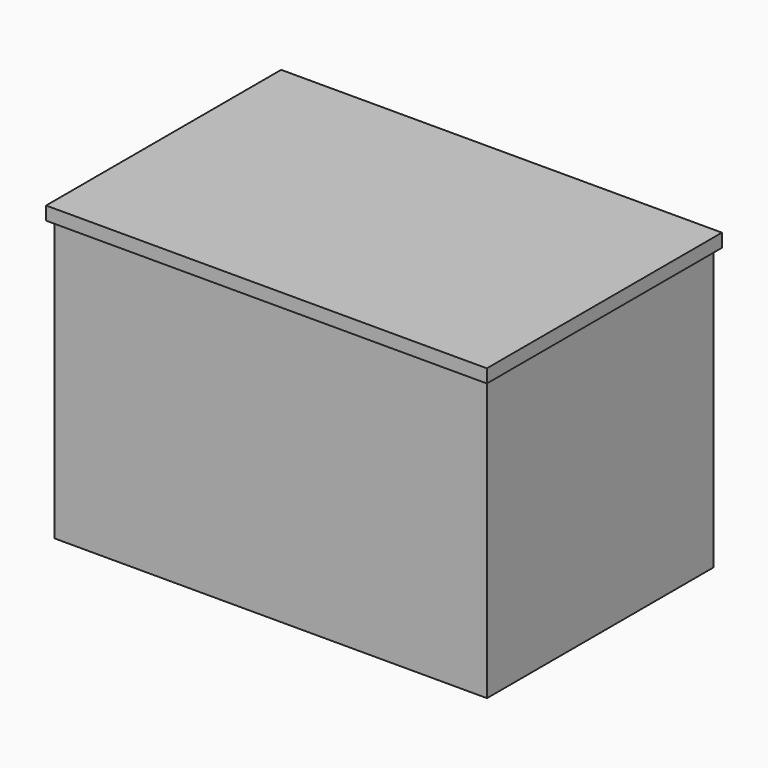
from build123d import *

# Parameters (mm, degrees)
F0_W     = 647.936674
F0_H     = 424.298402
F1_DEPTH = 440
F0_W_2   = 660
F0_H_2   = 440
F2_DEPTH = 20


with BuildPart() as f1:
    # F0 (on Top) → F1 (new body)
    with BuildSketch(Plane.XY):
        Rectangle(F0_W, F0_H)
    extrude(amount=-F1_DEPTH)

    # F0 (on Top) → F2 (join)
    with BuildSketch(Plane.XY):
        Rectangle(F0_W_2, F0_H_2)
        Rectangle(F0_W, F0_H, mode=Mode.SUBTRACT)
        Rectangle(F0_W, F0_H)
    extrude(amount=-F2_DEPTH)


solid = f1.part
